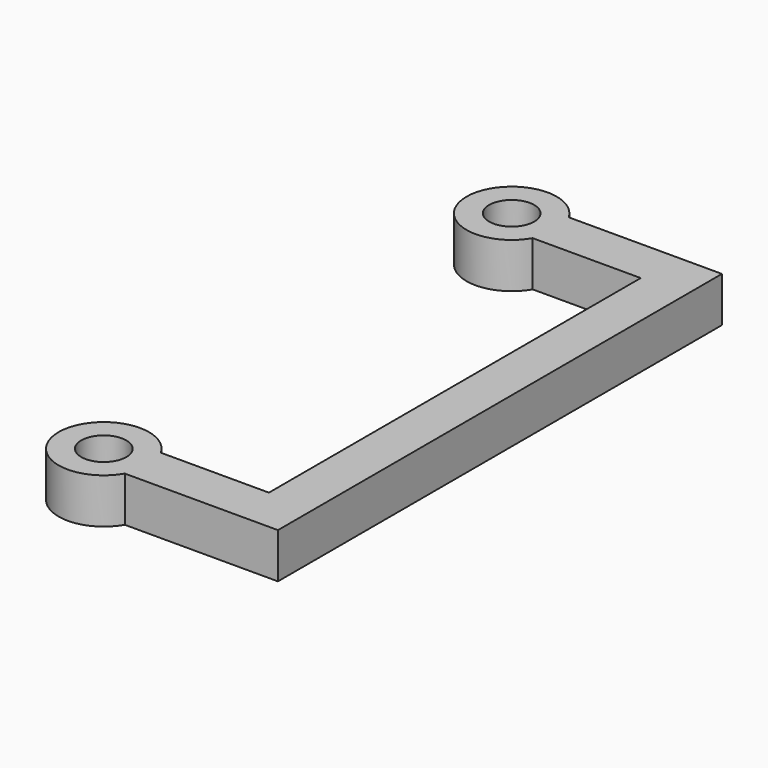
from build123d import *

# Parameters (mm, degrees)
SKETCH_R      = 10
EXTRUDE_DEPTH = 20


with BuildPart() as part:
    # Sketch → Extrude (new body)
    with BuildSketch(Plane.XY):
        with BuildLine():
            Line((12.115594, 0), (60, 0))
            Line((60, 206), (60, 0))
            Line((60, 206), (12.115594, 206))
            ThreePointArc((12.115594, 226), (-25.204914, 216), (12.115594, 206))
            Line((12.115594, 226), (80, 226))
            Line((80, 226), (80, -20))
            Line((80, -20), (12.115594, -20))
            ThreePointArc((12.115594, 0), (-25.204914, -10), (12.115594, -20))
        make_face()
        with Locations((-5.204914, -10)):
            Circle(SKETCH_R, mode=Mode.SUBTRACT)
        with Locations((-5.204914, 216)):
            Circle(SKETCH_R, mode=Mode.SUBTRACT)
    extrude(amount=EXTRUDE_DEPTH)


solid = part.part
